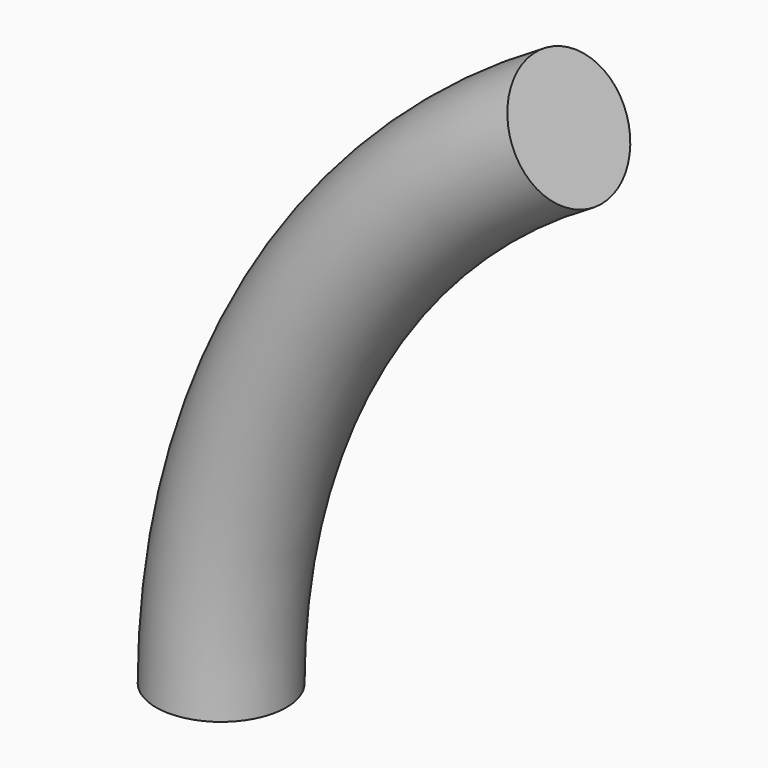
from build123d import *

# Parameters (mm, degrees)
F0_R     = 14.2875
F1_ANGLE = -60


with BuildPart() as f1:
    # F0 (on Top) → F1 (revolve)
    with BuildSketch(Plane.XY):
        with Locations((-152.4, 0)):
            Circle(F0_R)
    revolve(axis=Axis((0, -79.112187, 0), (0, -1, 0)), revolution_arc=F1_ANGLE)


solid = f1.part
